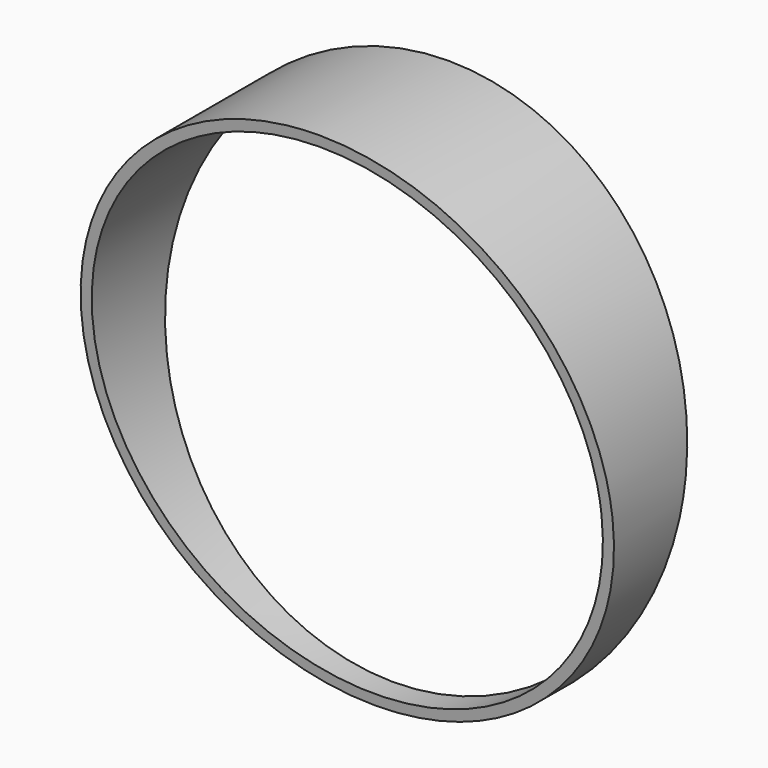
from build123d import *

# Parameters (mm, degrees)
F0_R     = 38.1
F0_R_2   = 36.5125
F1_DEPTH = 11.5951
F3_DEPTH = 50.8


with BuildPart() as f1:
    # F0 (on Front) → F1 (new body, symmetric)
    with BuildSketch(Plane.XZ):
        with Locations((0, 38.1)):
            Circle(F0_R)
        with Locations((0, 38.1)):
            Circle(F0_R_2, mode=Mode.SUBTRACT)
    extrude(amount=F1_DEPTH, both=True)

    # F2 (on Right) → F3 (cut, symmetric)
    with BuildSketch(Plane.YZ):
        Polygon((1.56318, 0), (-1.56318, 0), (-11.5951, 76.2), (-11.5951, -5.492948), (11.5951, -5.492948), (11.5951, 76.2), align=None)
    extrude(amount=F3_DEPTH, both=True, mode=Mode.SUBTRACT)


solid = f1.part
